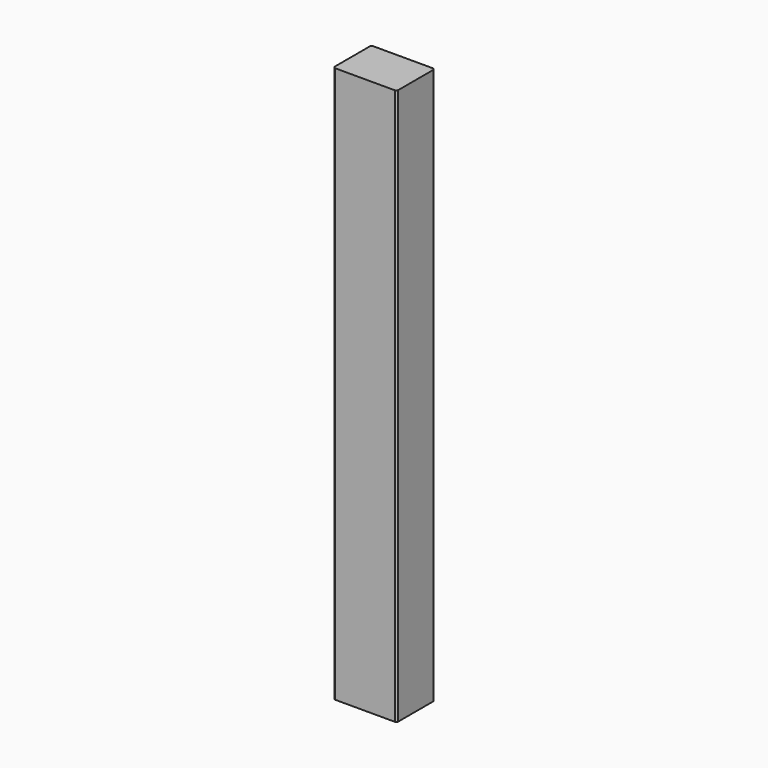
from build123d import *

# Parameters (mm, degrees)
F0_W     = 400
F0_H     = 300
F1_DEPTH = 3500
F2_SIZE  = 10


with BuildPart() as f1:
    # F0 (on Top) → F1 (new body)
    with BuildSketch(Plane.XY):
        Rectangle(F0_W, F0_H)
    extrude(amount=F1_DEPTH)

    # F2
    f2_edges = [f1.edges().sort_by_distance(p)[0] for p in [
        (200, -150, 1750),
        (-200, -150, 1750),
        (200, 150, 1750),
        (-200, 150, 1750),
    ]]
    chamfer(f2_edges, length=F2_SIZE)


solid = f1.part
